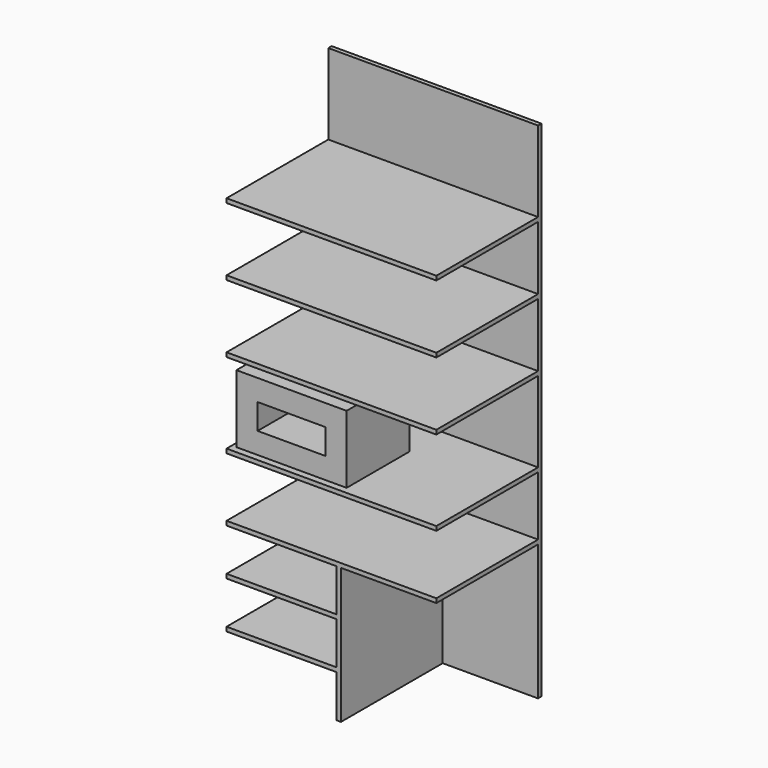
from build123d import *

# Parameters (mm, degrees)
F0_W     = 990
F0_H     = 2380
F1_DEPTH = 20
F2_W     = 520
F2_H     = 20
F2_W_2   = 990
F3_DEPTH = 600
F5_W     = 520
F5_H     = 320
F6_DEPTH = 370
F7_T     = -100


with BuildPart() as f1:
    # F0 (on Front) → F1 (new body)
    with BuildSketch(Plane.XZ):
        Rectangle(F0_W, F0_H)
    extrude(amount=F1_DEPTH)

    # F2 (on face) → F3 (join)
    with BuildSketch(Plane.XZ.offset(20)):
        Polygon((495, -530), (-495, -530), (-495, -550), (25, -550), (45, -550), (495, -550), align=None)
        Polygon((45, -550), (25, -550), (25, -750), (25, -770), (25, -970), (25, -990), (25, -1190), (45, -1190), align=None)
        with Locations((-235, -760)):
            Rectangle(F2_W, F2_H)
        with Locations((-235, -980)):
            Rectangle(F2_W, F2_H)
        with Locations((0, -240)):
            Rectangle(F2_W_2, F2_H)
        with Locations((0, 160)):
            Rectangle(F2_W_2, F2_H)
        with Locations((0, 480)):
            Rectangle(F2_W_2, F2_H)
        with Locations((0, 800)):
            Rectangle(F2_W_2, F2_H)
    extrude(amount=F3_DEPTH)


with BuildPart() as f6:
    # F5 (on offset) → F6 (new body)
    with BuildSketch(Plane.XZ.offset(220)):
        with Locations((-212.4700854719, -69)):
            Rectangle(F5_W, F5_H)
    extrude(amount=F6_DEPTH)

    # F7
    f7_openings = [f6.faces().sort_by_distance(p)[0] for p in [
        (-212.470085, -590, -69),
    ]]
    offset(amount=F7_T, openings=f7_openings)


solid = Compound([f1.part, f6.part])
